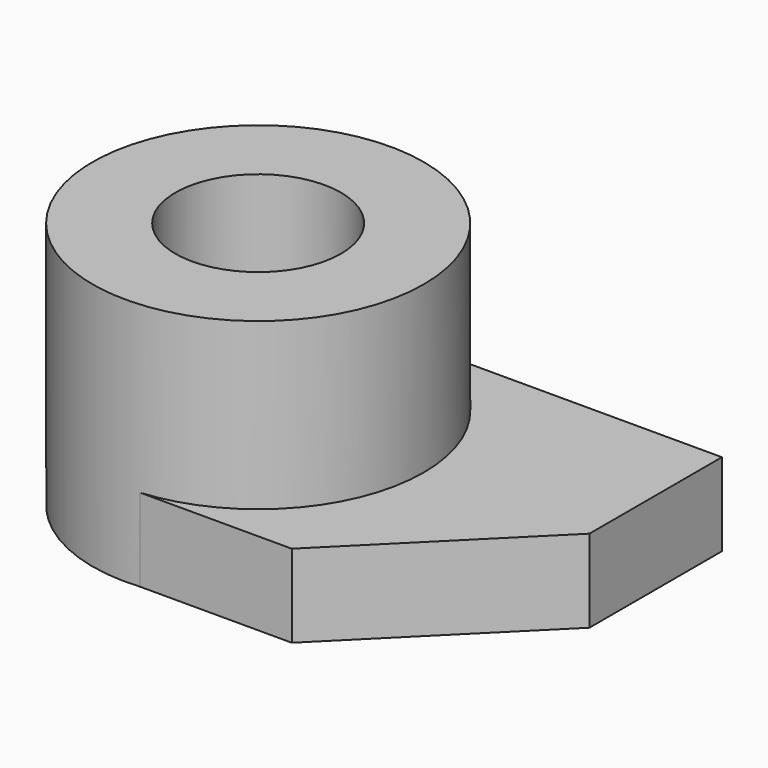
from build123d import *

# Parameters (mm, degrees)
F0_R     = 12.7
F0_R_2   = 6.35
F1_DEPTH = 19.05
F3_DEPTH = 6.35


with BuildPart() as f1:
    # F0 (on Top) → F1 (new body)
    with BuildSketch(Plane.XY):
        Circle(F0_R)
        Circle(F0_R_2, mode=Mode.SUBTRACT)
    extrude(amount=F1_DEPTH)

    # F2 (on Top) → F3 (join)
    with BuildSketch(Plane.XY):
        Polygon((25.4, 12.7), (0, 12.7), (0, -12.655177), (12.7, -12.655177), (25.4, 0), align=None)
    extrude(amount=F3_DEPTH)


solid = f1.part
